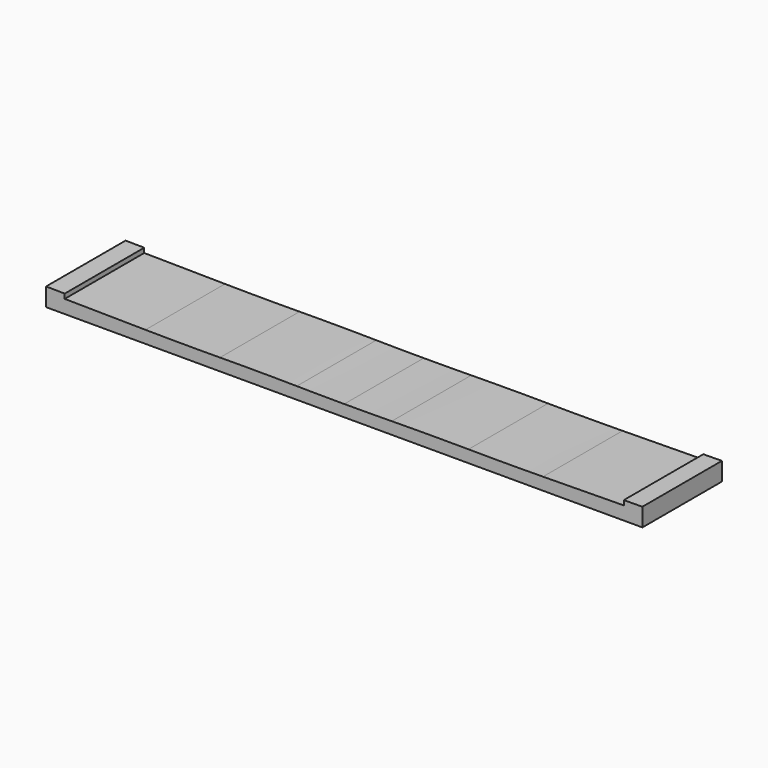
from build123d import *

# Parameters (mm, degrees)
F1_DEPTH = 406.4


with BuildPart() as f1:
    # F0 (on Front) → F1 (new body)
    with BuildSketch(Plane.XZ):
        with BuildLine():
            Line((0, 55.52242), (0, 0))
            Line((0, 0), (2438.4, 0))
            Line((2438.4, 0), (2438.4, 55.52242))
            Line((2438.4, 55.52242), (2438.4, 74.573828))
            Line((2438.4, 74.573828), (2362.2, 73.647479))
            Line((2362.2, 73.647479), (2362.2, 54.596071))
            Line((2362.2, 54.596071), (2032, 50.581893))
            ThreePointArc((2032, 50.581893), (1879.601643, 49.491294), (1727.2, 49.924736))
            ThreePointArc((1727.2, 49.924736), (1570.312045, 50.347846), (1413.428048, 49.155868))
            ThreePointArc((1413.428048, 49.155868), (1316.315996, 48.227572), (1219.2, 47.918136))
            ThreePointArc((1219.2, 47.918136), (1122.084004, 48.227572), (1024.971952, 49.155868))
            ThreePointArc((1024.971952, 49.155868), (868.087955, 50.347846), (711.2, 49.924736))
            ThreePointArc((711.2, 49.924736), (558.798357, 49.491294), (406.4, 50.581893))
            Line((406.4, 50.581893), (76.2, 54.596071))
            Line((76.2, 54.596071), (76.2, 73.647479))
            Line((76.2, 73.647479), (0, 74.573828))
            Line((0, 74.573828), (0, 55.52242))
        make_face()
    extrude(amount=-F1_DEPTH)


solid = f1.part
